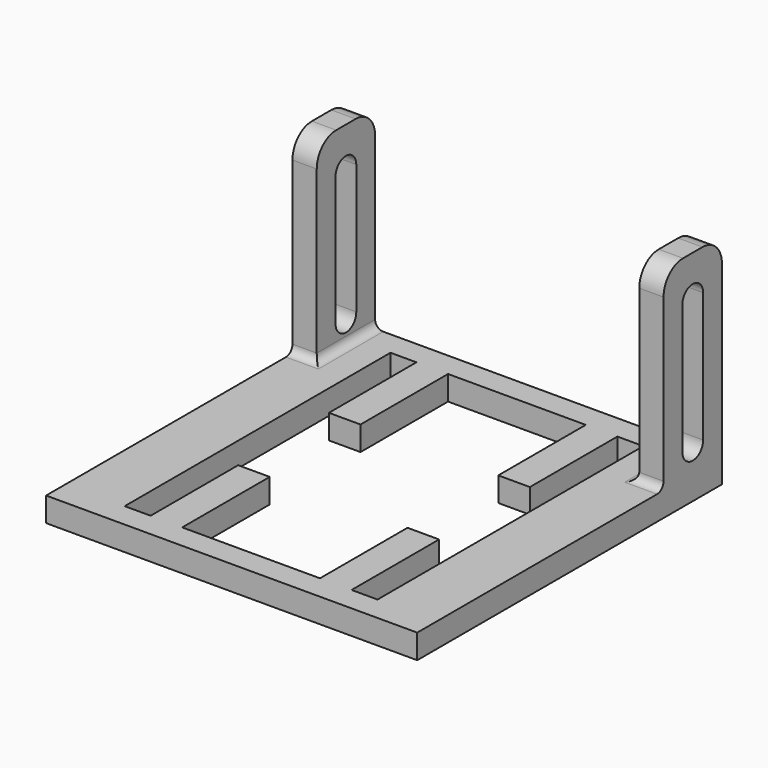
from build123d import *

# Parameters (mm, degrees)
SKETCH001_W  = 9
SKETCH001_H  = 27
PAD001_DEPTH = 3
SKETCH_W     = 45.8
SKETCH_H     = 47
PAD_DEPTH    = 3
SKETCH002_W  = 9
SKETCH002_H  = 27
PAD002_DEPTH = 3
FILLET_R     = 1
FILLET001_R  = 3


with BuildPart() as pad001:
    # Sketch001 → Pad001 (new body)
    with BuildSketch(Plane.YZ.offset(3)):
        with Locations((42.5, 13.5)):
            Rectangle(SKETCH001_W, SKETCH001_H)
        with BuildLine():
            ThreePointArc((44.1, 22), (42.5, 23.6), (40.9, 22))
            Line((40.9, 22), (40.9, 6))
            ThreePointArc((40.9, 6), (42.5, 4.4), (44.1, 6))
            Line((44.1, 22), (44.1, 6))
        make_face(mode=Mode.SUBTRACT)
    extrude(amount=-PAD001_DEPTH)


with BuildPart() as fusion:
    # Sketch → Pad (new body)
    with BuildSketch(Plane.XY):
        with Locations((22.9, 23.5)):
            Rectangle(SKETCH_W, SKETCH_H)
        Polygon((7.3, 44), (10.5, 44), (10.5, 30.5), (14.4, 30.5), (14.4, 44), (31.4, 44), (31.4, 30.5), (35.3, 30.5), (35.3, 44), (38.5, 44), (38.5, 3), (35.3, 3), (35.3, 16.5), (31.4, 16.5), (31.4, 3), (14.4, 3), (14.4, 16.5), (10.5, 16.5), (10.5, 3), (7.3, 3), align=None, mode=Mode.SUBTRACT)
    extrude(amount=PAD_DEPTH)

    # Fusion: union Pad001
    add(pad001.part)


with BuildPart() as fillet001:
    # Sketch002 → Pad002 (new body)
    with BuildSketch(Plane.YZ.offset(45.8)):
        with Locations((42.5, 13.5)):
            Rectangle(SKETCH002_W, SKETCH002_H)
        with BuildLine():
            ThreePointArc((44.1, 22), (42.5, 23.6), (40.9, 22))
            Line((40.9, 22), (40.9, 6))
            ThreePointArc((40.9, 6), (42.5, 4.4), (44.1, 6))
            Line((44.1, 22), (44.1, 6))
        make_face(mode=Mode.SUBTRACT)
    extrude(amount=-PAD002_DEPTH)

    # Fusion001: union Fusion
    add(fusion.part)

    # Fillet
    fillet_edges = [fillet001.edges().sort_by_distance(p)[0] for p in [
        (1.5, 38, 3),
        (3, 42.5, 3),
        (42.8, 42.5, 3),
        (44.3, 38, 3),
    ]]
    fillet(fillet_edges, radius=FILLET_R)

    # Fillet001
    fillet001_edges = [fillet001.edges().sort_by_distance(p)[0] for p in [
        (1.5, 38, 27),
        (44.3, 38, 27),
        (1.5, 47, 27),
        (44.3, 47, 27),
    ]]
    fillet(fillet001_edges, radius=FILLET001_R)


solid = fillet001.part
